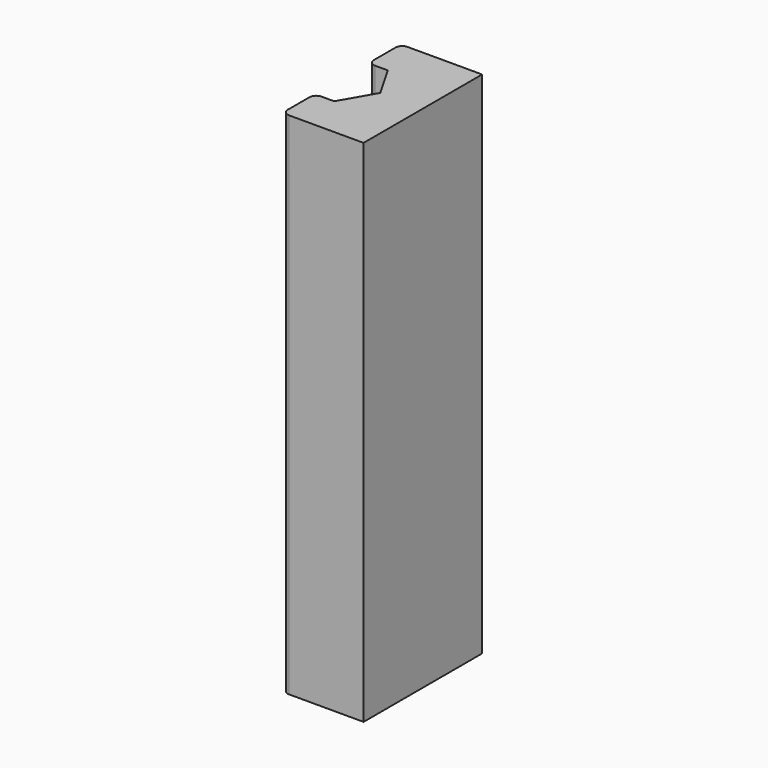
from build123d import *

# Parameters (mm, degrees)
F1_DEPTH = 38.1
F3_START = -2.54
F2_R     = 1.54305
F3_DEPTH = 1.524
F4_R     = 0.508


with BuildPart() as f1:
    # F0 (on Top) → F1 (new body)
    with BuildSketch(Plane.XY):
        Polygon((-31.75, 8.0264), (-34.7726, 8.0264), (-34.7726, 4.9911), (-33.3281273615, 4.9911), (-31.883654723, 2.4892), (-33.3281273615, -0.0127), (-34.7726, -0.0127), (-34.7726, -3.048), (-31.75, -3.048), (-28.702, -3.048), (-28.702, 8.0264), align=None)
    extrude(amount=F1_DEPTH)

    # F2 (on face) → F3 (cut)
    with BuildSketch(Plane.YZ.offset(-28.702).offset(F3_START)):
        with Locations((2.4892, 25.4)):
            Circle(F2_R)
        with Locations((2.4892, 12.7)):
            Circle(F2_R)
    extrude(amount=-F3_DEPTH, mode=Mode.SUBTRACT)

    # F4
    f4_edges = [f1.edges().sort_by_distance(p)[0] for p in [
        (-34.7726, -3.048, 19.05),
        (-34.7726, 8.0264, 19.05),
        (-34.7726, 4.9911, 19.05),
        (-34.7726, -0.0127, 19.05),
    ]]
    fillet(f4_edges, radius=F4_R)


solid = f1.part
